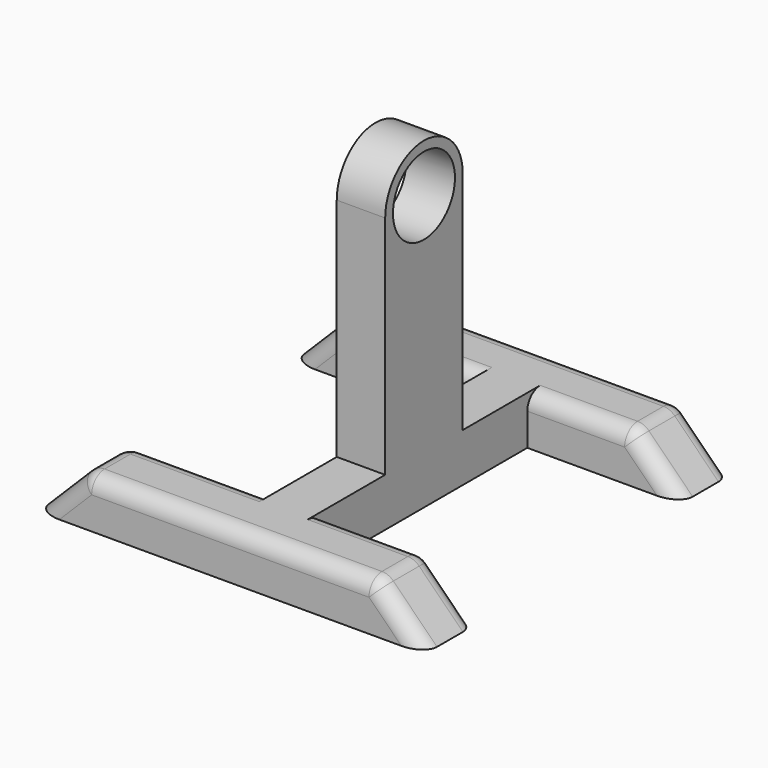
from build123d import *

# Parameters (mm, degrees)
F1_DEPTH  = 20
F2_W      = 15
F2_H      = 15
F3_DEPTH  = 80
F4_W      = 15
F4_H      = 15
F5_DEPTH  = 20
F6_R      = 5
F8_DEPTH  = 85
F10_DEPTH = 25
F11_R     = 12
F12_DEPTH = 72.7991883287


with BuildPart() as f1:
    # F0 (on Front) → F1 (new body)
    with BuildSketch(Plane.XZ):
        Polygon((-19.1690939665, 0), (-49.1690939665, 0), (-64.1690939665, 0), (-79.1690939665, -15), (-49.1690939665, -15), (10.8309060335, -15), (40.8309060335, -15), (25.8309060335, 0), (10.8309060335, 0), align=None)
    extrude(amount=F1_DEPTH)

    # F2 (on face) → F3 (join)
    with BuildSketch(Plane(origin=(0, 0, 0), x_dir=(-1, 0, 0), z_dir=(0, 1, 0))):
        with Locations((14.7267927229, -7.5)):
            Rectangle(F2_W, F2_H)
    extrude(amount=F3_DEPTH)

    # F4 (on face) → F5 (join)
    with BuildSketch(Plane(origin=(0, 80, 0), x_dir=(-1, 0, 0), z_dir=(0, 1, 0))):
        Polygon((7.2267927229, 0), (-24.975023807, 0), (-39.9750189483, -15), (-19.9750189483, -15), (7.2267927229, -15), align=None)
        with Locations((14.7267927229, -7.5)):
            Rectangle(F4_W, F4_H)
        Polygon((65.0249859104, 0), (22.2267927229, 0), (22.2267927229, -15), (60.0249810517, -15), (80.0249810517, -15), align=None)
    extrude(amount=F5_DEPTH)

    # F6
    f6_edges = [f1.edges().sort_by_distance(p)[0] for p in [
        (-65.024986, 90, 0),
        (24.975024, 90, 0),
        (-64.169094, -10, 0),
        (25.830906, -10, 0),
        (-43.197943, 0, 0),
        (9.302057, 0, 0),
        (33.330906, 0, -7.5),
        (-71.669094, 0, -7.5),
        (-71.669094, -20, -7.5),
        (-19.169094, -20, 0),
        (33.330906, -20, -7.5),
        (8.874116, 80, 0),
        (-43.625889, 80, 0),
        (-72.524983, 80, -7.5),
        (-72.524983, 100, -7.5),
        (-20.024981, 100, 0),
        (32.475021, 100, -7.5),
        (32.475021, 80, -7.5),
    ]]
    fillet(f6_edges, radius=F6_R)

    # F7 (on face) → F8 (join)
    with BuildSketch(Plane.XY):
        Polygon((-22.2267927229, 25), (-7.2267927229, 25), (-7.2267927229, 55), (-22.2267927229, 55), (-22.2267927229, 40), align=None)
    extrude(amount=F8_DEPTH)

    # F9 (on face) → F10 (cut)
    with BuildSketch(Plane.YZ.offset(-7.2267927229)):
        with BuildLine():
            ThreePointArc((25, 70), (29.3933982822, 80.6066017178), (40, 85))
            Line((40, 85), (25, 85))
            Line((25, 85), (25, 70))
        make_face()
        with BuildLine():
            Line((55, 85), (40, 85))
            ThreePointArc((40, 85), (50.6066017178, 80.6066017178), (55, 70))
            Line((55, 70), (55, 85))
        make_face()
    extrude(amount=-F10_DEPTH, mode=Mode.SUBTRACT)

    # F11 (on face) → F12 (cut, through all)
    with BuildSketch(Plane.YZ.offset(-7.2267927229)):
        with Locations((40, 70)):
            Circle(F11_R)
    extrude(amount=-F12_DEPTH, mode=Mode.SUBTRACT)


solid = f1.part
